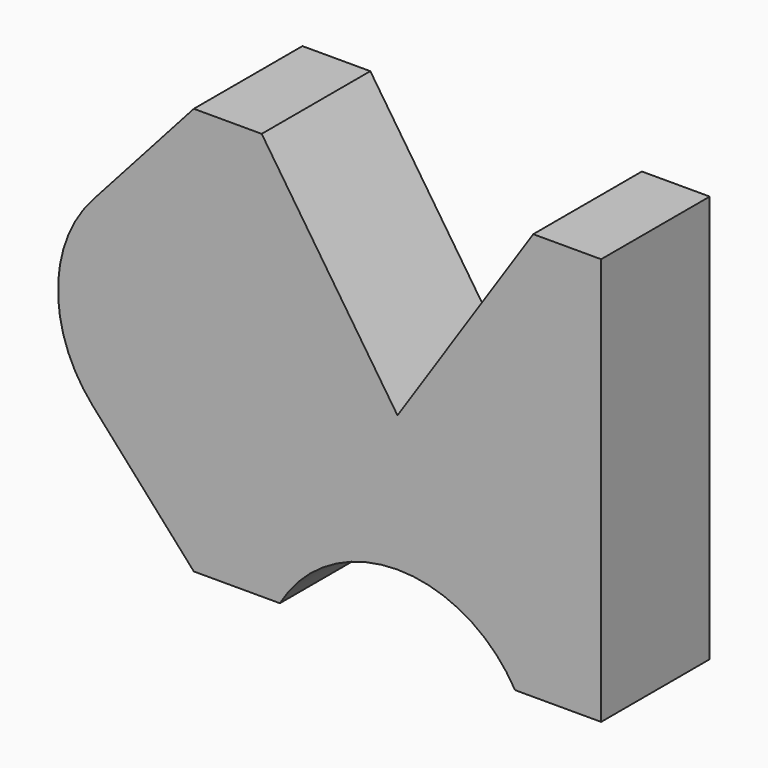
from build123d import *

# Parameters (mm, degrees)
F1_DEPTH = 20


with BuildPart() as f1:
    # F0 (on Front) → F1 (new body)
    with BuildSketch(Plane.XZ):
        with BuildLine():
            Line((17.320508, -30), (30, -30))
            Line((30, -30), (30, 0))
            Line((30, 0), (30, 30))
            Line((30, 30), (20, 30))
            Line((20, 30), (0, 0))
            Line((0, 0), (-20, 30))
            Line((-20, 30), (-30, 30))
            Line((-30, 30), (-44.90712, 13.333333))
            ThreePointArc((-44.90712, 13.333333), (-50, 0), (-44.90712, -13.333333))
            Line((-44.90712, -13.333333), (-30, -30))
            Line((-30, -30), (-17.320508, -30))
            ThreePointArc((-17.320508, -30), (0, -20), (17.320508, -30))
        make_face()
    extrude(amount=F1_DEPTH)


solid = f1.part
